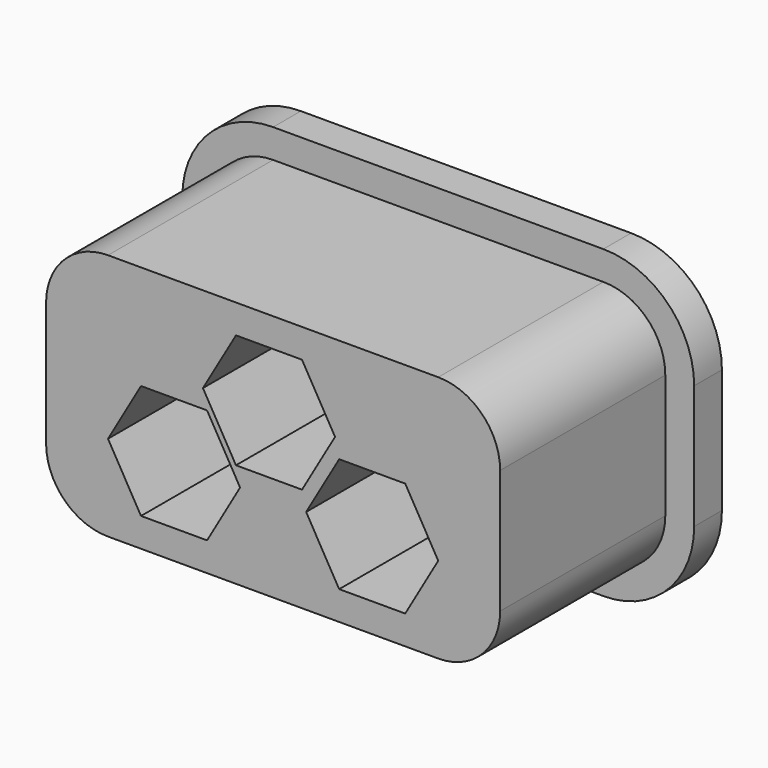
from build123d import *

# Parameters (mm, degrees)
PAD010_START    = 3.08
PAD010_DEPTH    = 0.42
PAD011_START    = 3.5
PAD011_DEPTH    = 2.5
POCKET013_START = 4.3
POCKET013_DEPTH = 5.7


with BuildPart() as part:
    # Sketch026 → Pad010 (new body)
    with BuildSketch(Plane.XZ.offset(PAD010_START)):
        with BuildLine():
            Line((6.164998, 8.15), (6.164998, 6.65))
            ThreePointArc((6.164998, 6.65), (6.48718, 5.872183), (7.264998, 5.55))
            Line((7.264998, 5.55), (11.264998, 5.55))
            ThreePointArc((11.264998, 5.55), (12.042815, 5.872183), (12.364998, 6.65))
            Line((12.364998, 6.65), (12.364998, 8.15))
            ThreePointArc((12.364998, 8.15), (12.042815, 8.927817), (11.264998, 9.25))
            Line((11.264998, 9.25), (7.264998, 9.25))
            ThreePointArc((7.264998, 9.25), (6.48718, 8.927817), (6.164998, 8.15))
        make_face()
    extrude(amount=PAD010_DEPTH)

    # Sketch027 → Pad011 (join)
    with BuildSketch(Plane.XZ.offset(PAD011_START)):
        with BuildLine():
            Line((6.514998, 8.15), (6.514998, 6.65))
            ThreePointArc((6.514998, 6.65), (6.734668, 6.11967), (7.264998, 5.9))
            Line((7.264998, 5.9), (11.264998, 5.9))
            ThreePointArc((11.264998, 5.9), (11.795328, 6.11967), (12.014998, 6.65))
            Line((12.014998, 6.65), (12.014998, 8.15))
            ThreePointArc((12.014998, 8.15), (11.795328, 8.68033), (11.264998, 8.9))
            Line((11.264998, 8.9), (7.264998, 8.9))
            ThreePointArc((7.264998, 8.9), (6.734668, 8.68033), (6.514998, 8.15))
        make_face()
    extrude(amount=PAD011_DEPTH)


with BuildPart() as part_1:
    # Body006 placement: moved
    add(part.part.moved(Location((0, -0.68, 0))))


with BuildPart() as part_2:
    # Clone003 placement: moved
    add(part_1.part.moved(Location((0, 0.68, 0))))

    # Sketch029 → Pocket013 (cut)
    with BuildSketch(Plane.XZ.offset(POCKET013_START)):
        Polygon((8.864998, 6.94282), (8.464998, 7.635641), (7.664998, 7.635641), (7.264998, 6.94282), (7.664998, 6.25), (8.464998, 6.25), align=None)
        Polygon((10.014998, 7.85718), (9.614998, 8.55), (8.814998, 8.55), (8.414998, 7.85718), (8.814998, 7.164359), (9.614998, 7.164359), align=None)
        Polygon((11.264998, 6.94282), (10.864998, 7.635641), (10.064998, 7.635641), (9.664998, 6.94282), (10.064998, 6.25), (10.864998, 6.25), align=None)
    extrude(amount=POCKET013_DEPTH, mode=Mode.SUBTRACT)


with BuildPart() as part_3:
    # Body009 placement: moved
    add(part_2.part.moved(Location((-9.3, 0, 0))))


solid = part_3.part
